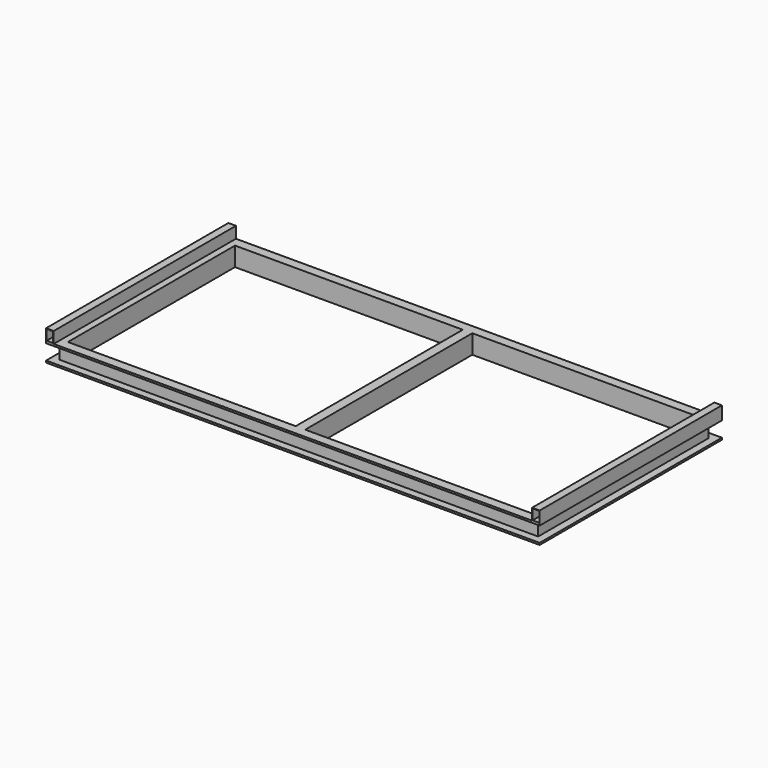
from build123d import *

# Parameters (mm, degrees)
F0_W          = 2600
F0_H          = 1200
F0_W_2        = 1200
F0_H_2        = 1100
F1_DEPTH      = 100
F2_W          = 40
F2_H          = 80
F3_DEPTH      = 2600.001
F4_W          = 40
F4_H          = 80
F5_DEPTH      = 1160.001
F6_W          = 90
F6_H          = 80
F7_DEPTH      = 550
F7_DEPTH_BACK = 550
F8_W          = 40
F8_H          = 1200
F9_DEPTH      = 60
F10_W         = 35
F10_H         = 55
F11_DEPTH     = 1200.001


with BuildPart() as f1:
    # F0 (on Top) → F1 (new body)
    with BuildSketch(Plane.XY):
        Rectangle(F0_W, F0_H)
        with Locations((-625, 0)):
            Rectangle(F0_W_2, F0_H_2, mode=Mode.SUBTRACT)
        with Locations((625, 0)):
            Rectangle(F0_W_2, F0_H_2, mode=Mode.SUBTRACT)
    extrude(amount=F1_DEPTH)

    # F2 (on face) → F3 (cut, through all)
    with BuildSketch(Plane(origin=(-1300, 0, 0), x_dir=(0, -1, 0), z_dir=(-1, 0, 0))):
        with Locations((-580, 50)):
            Rectangle(F2_W, F2_H)
        with Locations((580, 50)):
            Rectangle(F2_W, F2_H)
    extrude(amount=-F3_DEPTH, mode=Mode.SUBTRACT)

    # F4 (on face) → F5 (cut, through all)
    with BuildSketch(Plane.XZ.offset(560)):
        with Locations((1280, 50)):
            Rectangle(F4_W, F4_H)
        with Locations((-1280, 50)):
            Rectangle(F4_W, F4_H)
    extrude(amount=-F5_DEPTH, mode=Mode.SUBTRACT)

    # F6 (on Front) → F7 (cut, two sides)
    with BuildSketch(Plane.XZ) as f7_sk:
        with Locations((-45, 50)):
            Rectangle(F6_W, F6_H)
    extrude(amount=-F7_DEPTH, mode=Mode.SUBTRACT)
    extrude(f7_sk.sketch, amount=F7_DEPTH_BACK, mode=Mode.SUBTRACT)

    # F8 (on face) → F9 (join)
    with BuildSketch(Plane.XY.offset(100)):
        with Locations((-1280, 0)):
            Rectangle(F8_W, F8_H)
        with Locations((1280, 0)):
            Rectangle(F8_W, F8_H)
    extrude(amount=F9_DEPTH)

    # F10 (on face) → F11 (cut, through all)
    with BuildSketch(Plane.XZ.offset(600)):
        with Locations((1280.4266214371, 130)):
            Rectangle(F10_W, F10_H)
        with Locations((-1280.4266214371, 130)):
            Rectangle(F10_W, F10_H)
    extrude(amount=-F11_DEPTH, mode=Mode.SUBTRACT)


solid = f1.part
